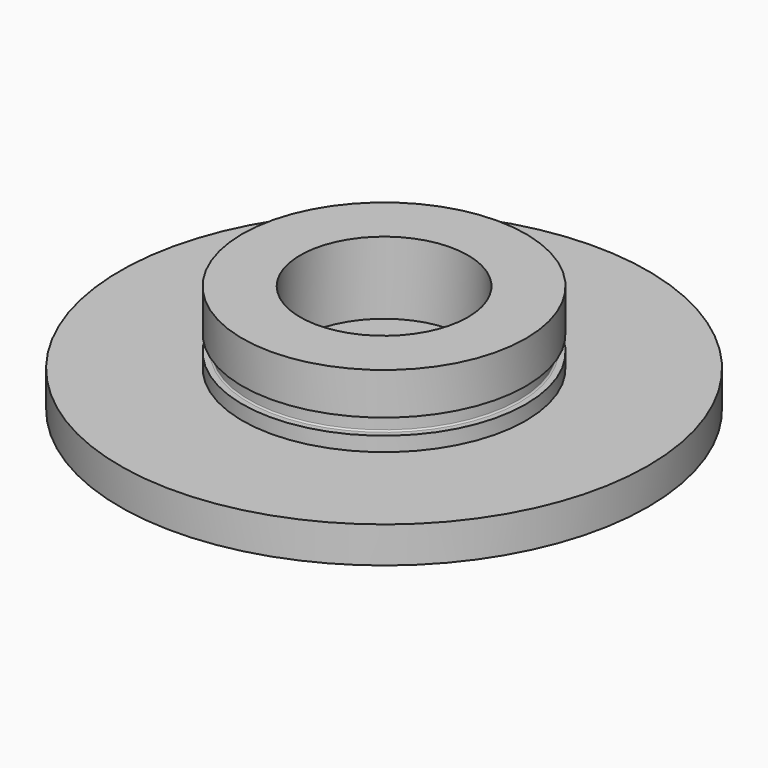
from build123d import *

# Parameters (mm, degrees)
F0_R     = 46.355
F1_DEPTH = 6.35
F2_R     = 24.892
F2_R_2   = 14.732
F3_DEPTH = 12.7
F4_W     = 1.27
F4_H     = 2.794
F6_R     = 0.254


with BuildPart() as f1:
    # F0 (on Top) → F1 (new body)
    with BuildSketch(Plane.XY):
        Circle(F0_R)
    extrude(amount=F1_DEPTH)

    # F2 (on face) → F3 (join)
    with BuildSketch(Plane.XY.offset(6.35)):
        Circle(F2_R)
        Circle(F2_R_2, mode=Mode.SUBTRACT)
    extrude(amount=F3_DEPTH)

    # F4 (on Front) → F5 (revolve, cut)
    with BuildSketch(Plane.XZ):
        with Locations((24.257, 10.287)):
            Rectangle(F4_W, F4_H)
    revolve(axis=Axis((0, 0, 4.445), (0, 0, 1)), mode=Mode.SUBTRACT)

    # F6
    f6_edges = [f1.edges().sort_by_distance(p)[0] for p in [
        (-23.622, 0, 11.684),
        (-23.622, 0, 8.89),
    ]]
    fillet(f6_edges, radius=F6_R)


solid = f1.part
